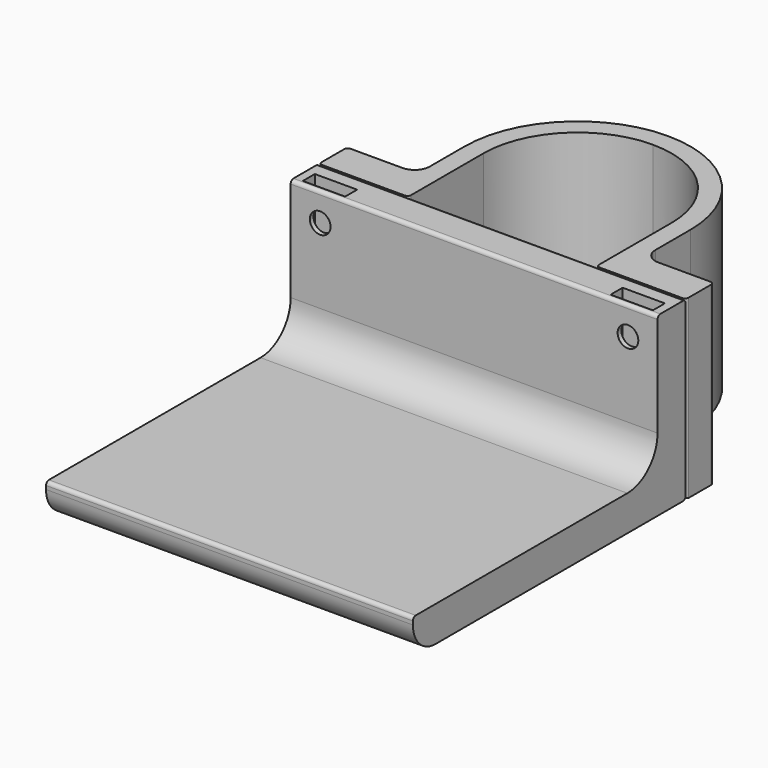
from build123d import *

# Parameters (mm, degrees)
F1_DEPTH       = 47.625
F2_R           = 4.064
F3_R           = 0.9652
F5_D           = 5.588
F5_CBORE_D     = 11.43
F5_CBORE_DEPTH = 4.445
F7_DEPTH       = 49.53
F8_R           = 10.16
F9_R           = 7.62
F10_R          = 0.9525
F11_W          = 11.43
F11_H          = 4.064
F12_DEPTH      = 15.24
F13_D          = 5.588
F13_DEPTH      = 15.24
F13_START      = 9.525
F13_TIP        = 1.6788045696
F14_D          = 5.588
F15_START      = 32.385
F15_DEPTH      = 15.24


with BuildPart() as f1:
    # F0 (on Top) → F1 (new body)
    with BuildSketch(Plane.XY):
        with BuildLine():
            Line((-25.4, -25.4), (-25.4, 0))
            ThreePointArc((-25.4, 0), (-17.9605122421, 17.9605122421), (0, 25.4))
            Line((0, 25.4), (0, 30.48))
            ThreePointArc((0, 30.48), (-21.5526146906, 21.5526146906), (-30.48, 0))
            Line((-30.48, 0), (-30.48, -15.875))
            Line((-30.48, -15.875), (-49.53, -15.875))
            Line((-49.53, -15.875), (-49.53, -25.4))
            Line((-49.53, -25.4), (-25.4, -25.4))
        make_face()
        with BuildLine():
            Line((0, 30.48), (0, 25.4))
            ThreePointArc((0, 25.4), (17.9605122421, 17.9605122421), (25.4, 0))
            Line((25.4, 0), (25.4, -25.4))
            Line((25.4, -25.4), (49.53, -25.4))
            Line((49.53, -25.4), (49.53, -15.875))
            Line((49.53, -15.875), (30.48, -15.875))
            Line((30.48, -15.875), (30.48, 0))
            ThreePointArc((30.48, 0), (21.5526146906, 21.5526146906), (0, 30.48))
        make_face()
    extrude(amount=F1_DEPTH)

    # F2
    f2_edges = [f1.edges().sort_by_distance(p)[0] for p in [
        (-30.48, -15.875, 23.8125),
        (30.48, -15.875, 23.8125),
    ]]
    fillet(f2_edges, radius=F2_R)

    # F3
    f3_edges = [f1.edges().sort_by_distance(p)[0] for p in [
        (49.53, -15.875, 23.8125),
        (49.53, -25.4, 23.8125),
        (25.4, -25.4, 23.8125),
        (37.465, -25.4, 0),
        (-25.4, -25.4, 23.8125),
        (-49.53, -25.4, 23.8125),
        (-49.53, -15.875, 23.8125),
    ]]
    fillet(f3_edges, radius=F3_R)

    # F5 (through all)
    with Locations(Plane(origin=(0, -15.875, 0), x_dir=(-1, 0, 0), z_dir=(0, 1, 0))):
        with Locations((-41.5544, 40.005), (-41.5544, 7.62), (41.5544, 40.005), (41.5544, 7.62)):
            CounterBoreHole(F5_D / 2, F5_CBORE_D / 2, F5_CBORE_DEPTH)


with BuildPart() as f7:
    # F6 (on Right) → F7 (new body, symmetric)
    with BuildSketch(Plane.YZ):
        Polygon((-25.4, 47.625), (-34.925, 47.625), (-34.925, 9.525), (-117.475, 9.525), (-117.475, 0), (-25.4, 0), align=None)
    extrude(amount=F7_DEPTH, both=True)

    # F8
    f8_edges = [f7.edges().sort_by_distance(p)[0] for p in [
        (0, -34.925, 9.525),
    ]]
    fillet(f8_edges, radius=F8_R)

    # F9
    f9_edges = [f7.edges().sort_by_distance(p)[0] for p in [
        (0, -117.475, 0),
    ]]
    fillet(f9_edges, radius=F9_R)

    # F10
    f10_edges = [f7.edges().sort_by_distance(p)[0] for p in [
        (0, -117.475, 9.525),
        (0, -34.925, 47.625),
        (0, -25.4, 47.625),
        (0, -25.4, 0),
    ]]
    fillet(f10_edges, radius=F10_R)

    # F11 (on Top) → F12 (cut)
    with BuildSketch(Plane.XY):
        with Locations((41.5544, -31.623)):
            Rectangle(F11_W, F11_H)
        with Locations((-41.5544, -31.623)):
            Rectangle(F11_W, F11_H)
    extrude(amount=F12_DEPTH, mode=Mode.SUBTRACT)

    # F13
    # its depths count from where the whole tool has entered the part; down to there all is cleared
    with Locations(Plane(origin=(0, -15.875, 0), x_dir=(-1, 0, 0), z_dir=(0, 1, 0)).offset(-F13_START)):
        with Locations((-41.5544, 7.62), (41.5544, 7.62)):
            Hole(F13_D / 2, depth=F13_DEPTH)
            with Locations((0, 0, -(F13_DEPTH + F13_TIP / 2))):  # 118° drill point
                Cone(0, F13_D / 2, F13_TIP, mode=Mode.SUBTRACT)

    # F14 (through all)
    with Locations(Plane(origin=(0, -15.875, 0), x_dir=(-1, 0, 0), z_dir=(0, 1, 0))):
        with Locations((-41.5544, 40.005), (41.5544, 40.005)):
            Hole(F14_D / 2)

    # F11 (on Top) → F15 (cut)
    with BuildSketch(Plane.XY.offset(F15_START)):
        with Locations((41.5544, -31.623)):
            Rectangle(F11_W, F11_H)
        with Locations((-41.5544, -31.623)):
            Rectangle(F11_W, F11_H)
    extrude(amount=F15_DEPTH, mode=Mode.SUBTRACT)


solid = Compound([f1.part, f7.part])
